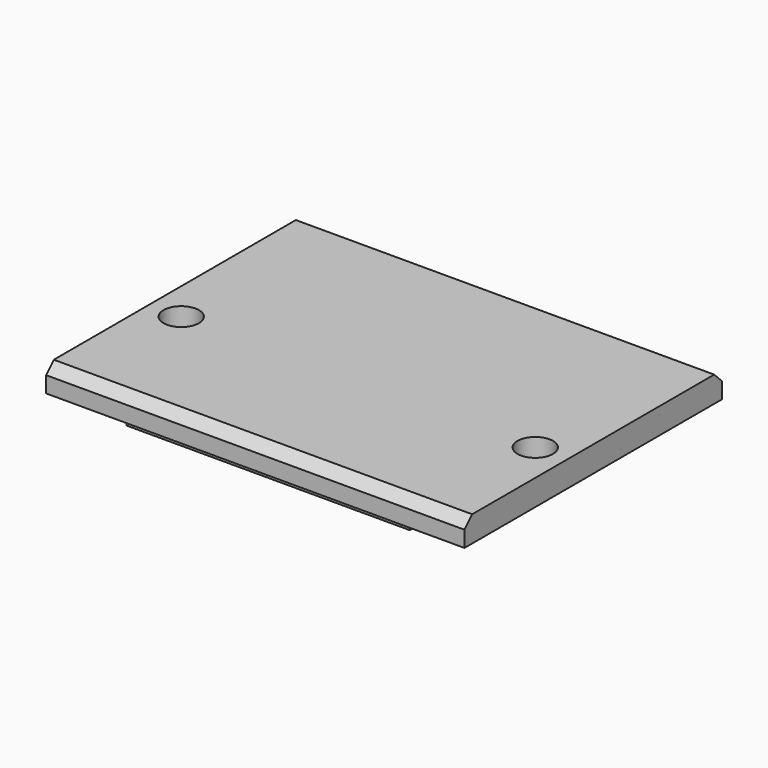
from build123d import *

# Parameters (mm, degrees)
SKETCH018_W  = 26
SKETCH018_H  = 20
SKETCH018_R  = 1.1
PAD011_DEPTH = 1.6
SKETCH019_W  = 17.6
SKETCH019_H  = 18
PAD012_DEPTH = 0.8
CHAMFER_SIZE = 0.6


with BuildPart() as part:
    # Sketch018 → Pad011 (new body)
    with BuildSketch(Plane.XY):
        Rectangle(SKETCH018_W, SKETCH018_H)
        with Locations((-11, -2)):
            Circle(SKETCH018_R, mode=Mode.SUBTRACT)
        with Locations((11, -2)):
            Circle(SKETCH018_R, mode=Mode.SUBTRACT)
    extrude(amount=PAD011_DEPTH)

    # Sketch019 (on Face7 of Pad011) → Pad012 (join)
    with BuildSketch(Plane(origin=(0, 0, 0), x_dir=(1, 0, 0), z_dir=(0, 0, -1))):
        Rectangle(SKETCH019_W, SKETCH019_H)
    extrude(amount=PAD012_DEPTH)

    # Chamfer
    chamfer_edges = [part.edges().sort_by_distance(p)[0] for p in [
        (0, -10, 1.6),
        (0, 10, 1.6),
    ]]
    chamfer(chamfer_edges, length=CHAMFER_SIZE)


with BuildPart() as part_1:
    # Body005 placement: moved
    add(part.part.moved(Location((0, -10, 6))))


solid = part_1.part
